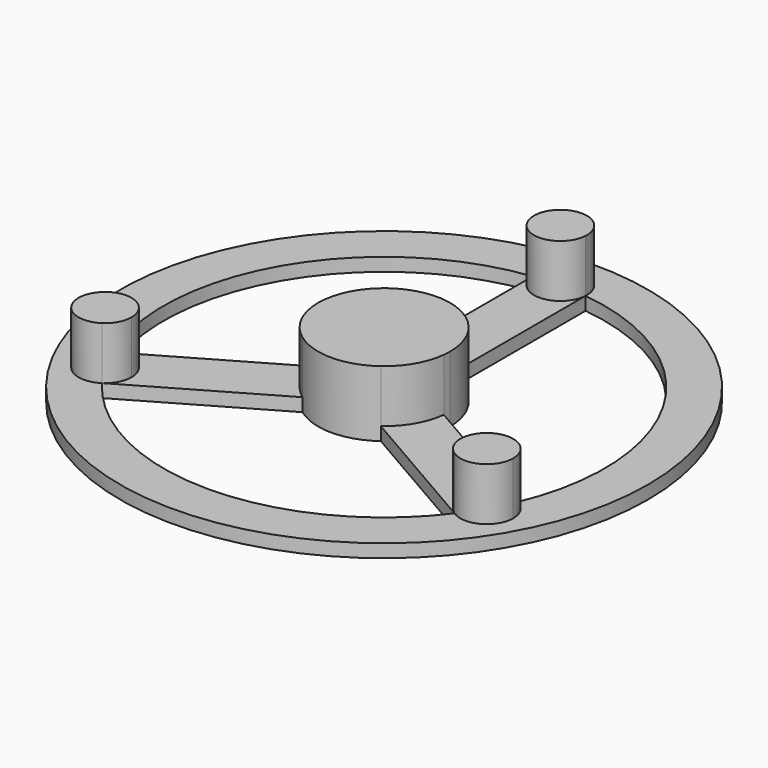
from build123d import *

# Parameters (mm, degrees)
F1_DEPTH = 2.54
F0_R     = 50.8
F2_DEPTH = 12.7
F3_R     = 10.6934
F4_DEPTH = 10.16


with BuildPart() as f1:
    # F0 (on Top) → F1 (new body)
    with BuildSketch(Plane.XY):
        with BuildLine():
            ThreePointArc((-7.5403124952, -10.2192801838), (-10.9985226281, -6.35), (-12.6203124952, -1.4204620814))
            Line((-12.6203124952, -1.4204620814), (-39.0106764813, -16.6569458328))
            ThreePointArc((-39.0106764812, -16.6569458328), (-34.0593747907, -16.8799953872), (-31.6459004079, -21.209))
            ThreePointArc((-31.6459004079, -21.209), (-32.2533470771, -23.6201825743), (-33.9306764813, -25.4557639352))
            Line((-33.9306764813, -25.4557639352), (-7.5403124952, -10.2192801838))
        make_face()
    extrude(amount=F1_DEPTH)



with BuildPart() as f1b:
    # F0 (on Top) → F1, piece 2 (new body)
    with BuildSketch(Plane.XY):
        Circle(F0_R)
        with BuildLine():
            ThreePointArc((-39.0106764812, -16.6569458328), (-36.7350655777, 21.209), (-5.08, 42.112709768))
            ThreePointArc((-5.08, 42.112709768), (-0.1527138878, 47.5048733613), (5.0891651698, 42.418))
            ThreePointArc((5.0891651698, 42.418), (5.0868733613, 42.2652861122), (5.08, 42.112709768))
            ThreePointArc((5.08, 42.112709768), (36.7350655777, 21.209), (39.0106764812, -16.6569458328))
            ThreePointArc((39.0106764813, -16.6569458328), (41.0640701906, -18.533309213), (41.8242307476, -21.209))
            ThreePointArc((41.8242307476, -21.209), (39.146248152, -25.6907185007), (33.9306764812, -25.4557639352))
            ThreePointArc((33.9306764812, -25.4557639352), (0, -42.418), (-33.9306764812, -25.4557639352))
            ThreePointArc((-33.9306764813, -25.4557639352), (-41.1424118989, -23.7535825849), (-39.0106764812, -16.6569458328))
        make_face(mode=Mode.SUBTRACT)
    extrude(amount=F1_DEPTH)


with BuildPart() as f1c:
    # F0 (on Top) → F1, piece 3 (new body)
    with BuildSketch(Plane.XY):
        with BuildLine():
            ThreePointArc((33.9306764812, -25.4557639352), (32.3277192566, -18.6644174151), (39.0106764813, -16.6569458328))
            Line((39.0106764813, -16.6569458328), (12.6203124952, -1.4204620814))
            ThreePointArc((12.6203124952, -1.4204620814), (10.9985226281, -6.35), (7.5403124952, -10.2192801838))
            Line((7.5403124952, -10.2192801838), (33.9306764812, -25.4557639352))
        make_face()
    extrude(amount=F1_DEPTH)


with BuildPart() as f1d:
    # F0 (on Top) → F1, piece 4 (new body)
    with BuildSketch(Plane.XY):
        with BuildLine():
            Line((-5.08, 42.112709768), (-5.08, 11.6397422652))
            ThreePointArc((-5.08, 11.6397422652), (0, 12.7), (5.08, 11.6397422652))
            Line((5.08, 11.6397422652), (5.08, 42.112709768))
            ThreePointArc((5.08, 42.112709768), (0, 37.3288348302), (-5.08, 42.112709768))
        make_face()
    extrude(amount=F1_DEPTH)


with BuildPart() as f1_1:
    add(f1.part)

    add(f1b.part)  # F2 merges F1b

    add(f1c.part)  # F2 merges F1c

    add(f1d.part)  # F2 merges F1d
    # F0 (on Top) → F2 (join)
    with BuildSketch(Plane.XY):
        with BuildLine():
            ThreePointArc((5.08, 11.6397422652), (0, 12.7), (-5.08, 11.6397422652))
            ThreePointArc((-5.08, 11.6397422652), (-10.9985226281, 6.35), (-12.6203124952, -1.4204620814))
            ThreePointArc((-12.6203124952, -1.4204620814), (-10.9985226281, -6.35), (-7.5403124952, -10.2192801838))
            ThreePointArc((-7.5403124952, -10.2192801838), (0, -12.7), (7.5403124952, -10.2192801838))
            ThreePointArc((7.5403124952, -10.2192801838), (10.9985226281, -6.35), (12.6203124952, -1.4204620814))
            ThreePointArc((12.6203124952, -1.4204620814), (12.680062474, -0.7113477741), (12.7, 0))
            ThreePointArc((12.7, 0), (10.625582337, 6.9560764803), (5.08, 11.6397422652))
        make_face()
        with BuildLine():
            ThreePointArc((-31.6459004079, -21.209), (-34.0593747907, -16.8799953872), (-39.0106764812, -16.6569458328))
            ThreePointArc((-39.0106764812, -16.6569458328), (-41.1424118989, -23.7535825849), (-33.9306764813, -25.4557639352))
            ThreePointArc((-33.9306764813, -25.4557639352), (-32.2533470771, -23.6201825743), (-31.6459004079, -21.209))
        make_face()
        with BuildLine():
            ThreePointArc((41.8242307476, -21.209), (41.0640701906, -18.533309213), (39.0106764813, -16.6569458328))
            ThreePointArc((39.0106764813, -16.6569458328), (32.3277192566, -18.6644174151), (33.9306764812, -25.4557639352))
            ThreePointArc((33.9306764812, -25.4557639352), (39.146248152, -25.6907185007), (41.8242307476, -21.209))
        make_face()
        with BuildLine():
            ThreePointArc((5.0891651698, 42.418), (-0.1527138878, 47.5048733613), (-5.08, 42.112709768))
            ThreePointArc((-5.08, 42.112709768), (0, 37.3288348302), (5.08, 42.112709768))
            ThreePointArc((5.08, 42.112709768), (5.0868733613, 42.2652861122), (5.0891651698, 42.418))
        make_face()
    extrude(amount=F2_DEPTH)

    # F3 (on face) → F4 (cut)
    with BuildSketch(Plane.XY):
        Circle(F3_R)
    extrude(amount=F4_DEPTH, mode=Mode.SUBTRACT)


solid = f1_1.part
